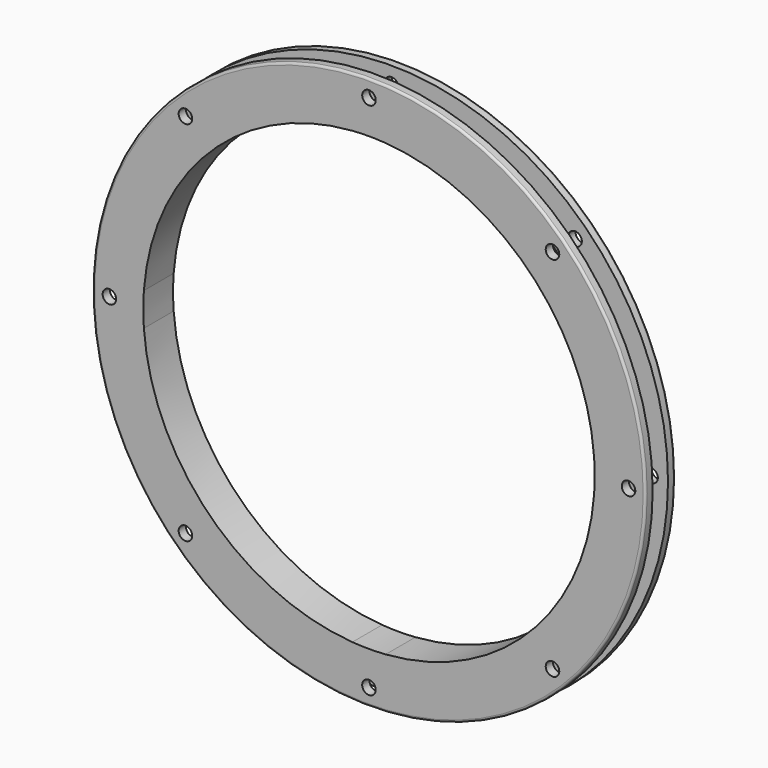
from build123d import *

# Parameters (mm, degrees)
F0_R     = 122.5
F0_R_2   = 3
F1_DEPTH = 16.5
F4_R     = 1


with BuildPart() as f1:
    # F0 (on Front) → F1 (new body)
    with BuildSketch(Plane.XZ):
        Circle(F0_R)
        with Locations((-81.31728, -81.31728)):
            Circle(F0_R_2, mode=Mode.SUBTRACT)
        with Locations((0, -115)):
            Circle(F0_R_2, mode=Mode.SUBTRACT)
        with Locations((81.31728, -81.31728)):
            Circle(F0_R_2, mode=Mode.SUBTRACT)
        with Locations((-115, 0)):
            Circle(F0_R_2, mode=Mode.SUBTRACT)
        with Locations((-81.31728, 81.31728)):
            Circle(F0_R_2, mode=Mode.SUBTRACT)
        with BuildLine():
            ThreePointArc((-99.728162, 7.368421), (-70.710678, 70.710678), (-7.368421, 99.728162))
            ThreePointArc((-7.368421, 99.728162), (0, 100), (7.368421, 99.728162))
            ThreePointArc((7.368421, 99.728162), (70.710678, 70.710678), (99.728162, 7.368421))
            ThreePointArc((99.728162, 7.368421), (99.932017, 3.686717), (100, 0))
            ThreePointArc((100, 0), (99.932017, -3.686717), (99.728162, -7.368421))
            ThreePointArc((99.728162, -7.368421), (70.710678, -70.710678), (7.368421, -99.728162))
            ThreePointArc((7.368421, -99.728162), (0, -100), (-7.368421, -99.728162))
            ThreePointArc((-7.368421, -99.728162), (-70.710678, -70.710678), (-99.728162, -7.368421))
            ThreePointArc((-99.728162, -7.368421), (-100, 0), (-99.728162, 7.368421))
        make_face(mode=Mode.SUBTRACT)
        with Locations((115, 0)):
            Circle(F0_R_2, mode=Mode.SUBTRACT)
        with Locations((0, 115)):
            Circle(F0_R_2, mode=Mode.SUBTRACT)
        with Locations((81.31728, 81.31728)):
            Circle(F0_R_2, mode=Mode.SUBTRACT)
    extrude(amount=F1_DEPTH)

    # F2 (on Right) → F3 (revolve, cut)
    with BuildSketch(Plane.YZ):
        Polygon((-12.5, 104), (-4, 104), (-4, 126.782835), (-12.5, 127.067506), align=None)
    revolve(axis=Axis((0, 30.039648, 0), (0, 1, 0)), mode=Mode.SUBTRACT)

    # F4
    f4_edges = [f1.edges().sort_by_distance(p)[0] for p in [
        (-122.5, -16.5, 0),
        (-122.5, 0, 0),
    ]]
    fillet(f4_edges, radius=F4_R)


solid = f1.part
